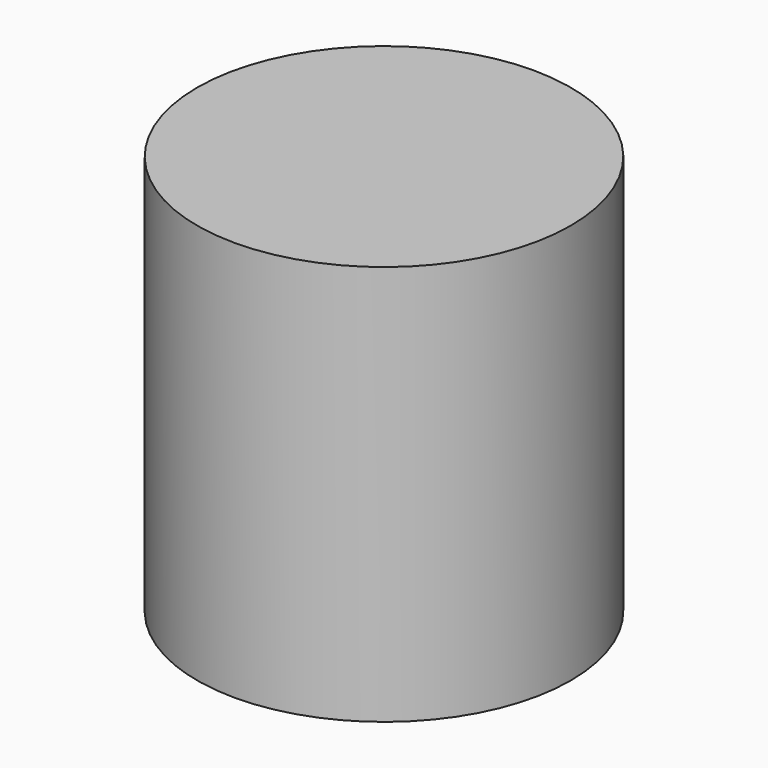
from build123d import *

# Parameters (mm, degrees)
F0_R     = 35.56
F1_DEPTH = 76.2
F2_W     = 25.4
F2_H     = 50.8
F3_DEPTH = 50.8
F5_R     = 7.62
F6_DEPTH = 66.04


with BuildPart() as f1:
    # F0 (on Top) → F1 (new body)
    with BuildSketch(Plane.XY):
        Circle(F0_R)
    extrude(amount=F1_DEPTH)

    # F2 (on face) → F3 (cut)
    with BuildSketch(Plane(origin=(0, 0, 0), x_dir=(1, 0, 0), z_dir=(0, 0, -1))):
        Rectangle(F2_W, F2_H)
    extrude(amount=-F3_DEPTH, mode=Mode.SUBTRACT)

    # F5 (on offset) → F6 (join)
    with BuildSketch(Plane.YZ.offset(33.02)):
        with Locations((0, 25.4)):
            Circle(F5_R)
    extrude(amount=-F6_DEPTH)


solid = f1.part
